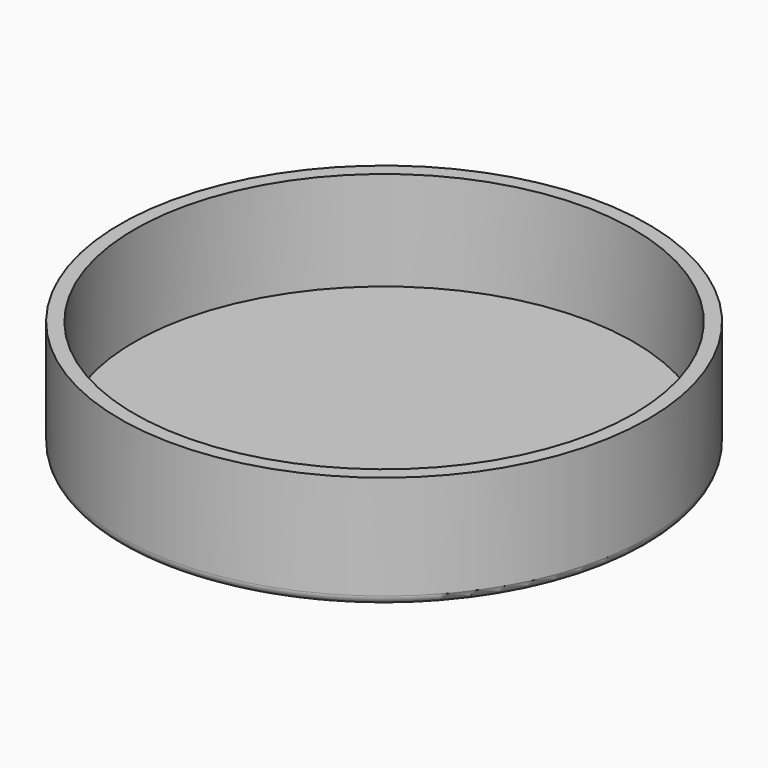
from build123d import *

# Parameters (mm, degrees)
F0_R     = 58.25
F1_DEPTH = 25
F2_T     = -3.15
F3_R     = 2


with BuildPart() as f1:
    # F0 (on Top) → F1 (new body)
    with BuildSketch(Plane.XY):
        Circle(F0_R)
    extrude(amount=F1_DEPTH)

    # F2
    f2_openings = [f1.faces().sort_by_distance(p)[0] for p in [
        (0, 0, 25),
    ]]
    offset(amount=F2_T, openings=f2_openings)

    # F3
    f3_edges = [f1.edges().sort_by_distance(p)[0] for p in [
        (-58.25, 0, 0),
    ]]
    fillet(f3_edges, radius=F3_R)


solid = f1.part
